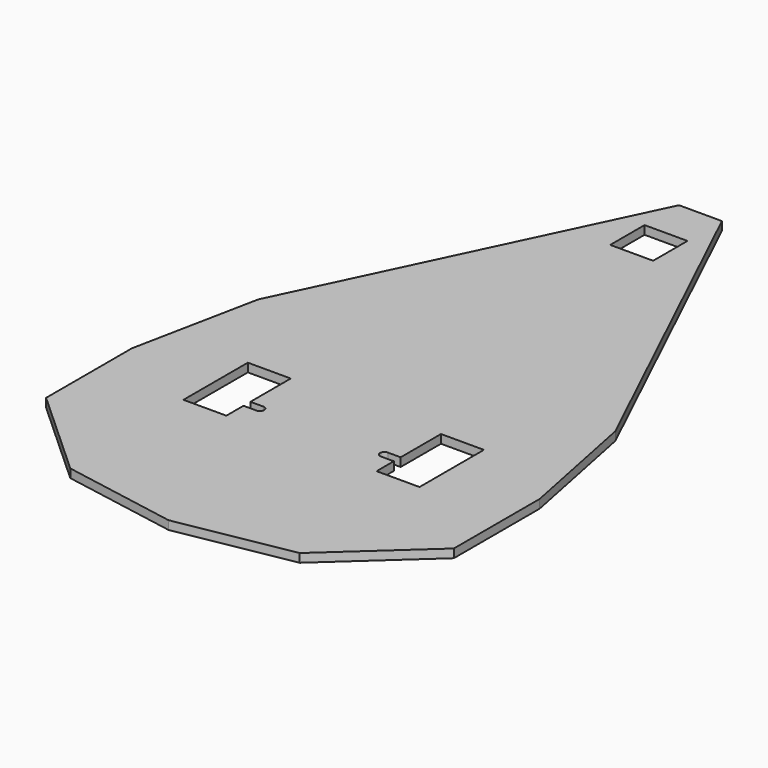
from build123d import *

# Parameters (mm, degrees)
F0_W     = 20
F0_H     = 20
F1_DEPTH = 4


with BuildPart() as f1:
    # F0 (on Top) → F1 (new body)
    with BuildSketch(Plane.XY):
        Polygon((-83.155292, 58.819239), (-95, 0), (-95, -50), (-53.394669, -87.909631), (0, -97.459667), (53.394669, -87.909631), (95, -50), (95, 0), (83.155292, 58.819239), (10, 212.371753), (-10, 212.371753), align=None)
        with BuildLine():
            Line((-55, -20), (-55, 17.5))
            Line((-55, 17.5), (-35, 17.5))
            Line((-35, 17.5), (-35, -6))
            Line((-35, -6), (-29, -6))
            ThreePointArc((-29, -6), (-27.585786, -6.585786), (-27, -8))
            ThreePointArc((-27, -8), (-27.585786, -9.414214), (-29, -10))
            Line((-29, -10), (-35, -10))
            Line((-35, -10), (-35, -20))
            Line((-35, -20), (-55, -20))
        make_face(mode=Mode.SUBTRACT)
        with BuildLine():
            Line((35, -6), (35, 17.5))
            Line((35, 17.5), (55, 17.5))
            Line((55, 17.5), (55, -20))
            Line((55, -20), (35, -20))
            Line((35, -20), (35, -10))
            Line((35, -10), (29, -10))
            ThreePointArc((29, -10), (27, -8), (29, -6))
            Line((29, -6), (35, -6))
        make_face(mode=Mode.SUBTRACT)
        with Locations((0, 182.317775)):
            Rectangle(F0_W, F0_H, mode=Mode.SUBTRACT)
    extrude(amount=F1_DEPTH)


solid = f1.part
